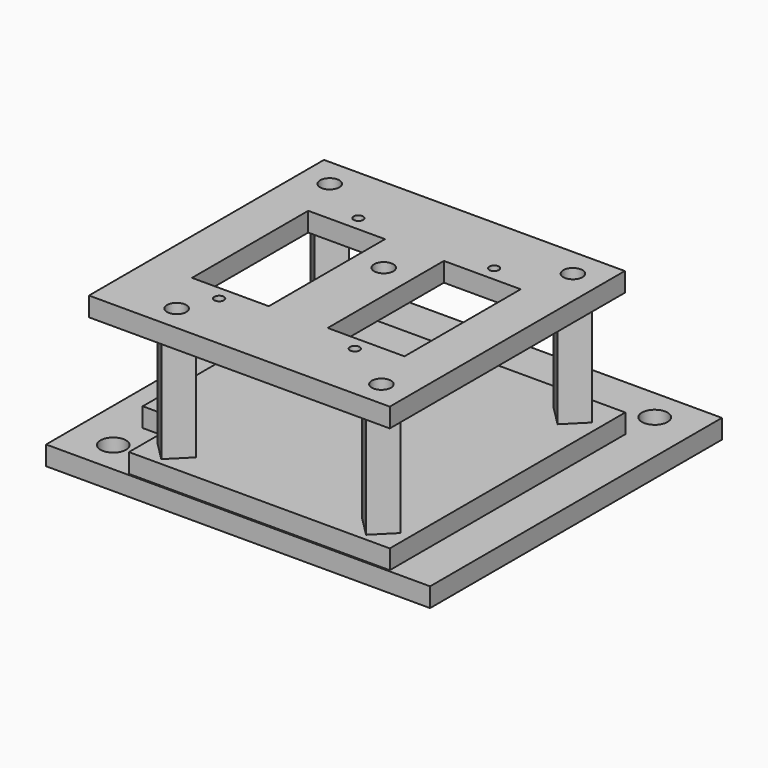
from build123d import *

# Parameters (mm, degrees)
CYLINDER003_R     = 1.5
CYLINDER003_DEPTH = 10
CYLINDER002_R     = 2
CYLINDER002_DEPTH = 10
CYLINDER001_R     = 2
CYLINDER001_DEPTH = 10
CYLINDER_R        = 2
CYLINDER_DEPTH    = 10
BOX_W             = 60
BOX_H             = 57
BOX_DEPTH         = 3
CYLINDER013_R     = 1.5
CYLINDER013_DEPTH = 10
CYLINDER012_R     = 1.5
CYLINDER012_DEPTH = 10
CYLINDER008_R     = 0.75
CYLINDER008_DEPTH = 10
ARRAY006_X_COUNT  = 2
ARRAY006_X_PITCH  = 21.2
ARRAY006_Y_COUNT  = 2
ARRAY006_Y_PITCH  = 27.2
BOX003_W          = 12
BOX003_H          = 22.7
BOX003_DEPTH      = 10
ARRAY004_X_COUNT  = 2
ARRAY004_X_PITCH  = 21.2
CYLINDER006_R     = 1.5
CYLINDER006_DEPTH = 10
ARRAY005_Y_COUNT  = 2
ARRAY005_Y_PITCH  = 37.4
CYLINDER007_R     = 1.5
CYLINDER007_DEPTH = 10
BOX002_W          = 47
BOX002_H          = 45.9
BOX002_DEPTH      = 3
CYLINDER011_R     = 1.5
CYLINDER011_DEPTH = 27
PRISM002_DEPTH    = 20
CYLINDER010_R     = 1.5
CYLINDER010_DEPTH = 27
BOX004_W          = 10
BOX004_H          = 11
BOX004_DEPTH      = 3
CYLINDER009_R     = 1.5
CYLINDER009_DEPTH = 27
PRISM001_DEPTH    = 20
CYLINDER005_R     = 1.5
CYLINDER005_DEPTH = 27
ARRAY002_Y_COUNT  = 2
ARRAY002_Y_PITCH  = 37.4
CYLINDER004_R     = 2.5
CYLINDER004_DEPTH = 10
PRISM_DEPTH       = 20
ARRAY003_Y_COUNT  = 2
ARRAY003_Y_PITCH  = 37.4
BOX001_W          = 47
BOX001_H          = 46
BOX001_DEPTH      = 3


with BuildPart() as cylinder003:
    # Cylinder003 → Cylinder003 (new body)
    with BuildSketch(Plane(origin=(30, 28.5, 0), x_dir=(1, 0, 0), z_dir=(0, 0, 1))):
        Circle(CYLINDER003_R)
    extrude(amount=CYLINDER003_DEPTH)


with BuildPart() as cylinder002:
    # Cylinder002 → Cylinder002 (new body)
    with BuildSketch(Plane(origin=(53.5, 52, 0), x_dir=(1, 0, 0), z_dir=(0, 0, 1))):
        Circle(CYLINDER002_R)
    extrude(amount=CYLINDER002_DEPTH)


with BuildPart() as cylinder001:
    # Cylinder001 → Cylinder001 (new body)
    with BuildSketch(Plane(origin=(6.5, 52, 0), x_dir=(1, 0, 0), z_dir=(0, 0, 1))):
        Circle(CYLINDER001_R)
    extrude(amount=CYLINDER001_DEPTH)


with BuildPart() as cylinder:
    # Cylinder → Cylinder (new body)
    with BuildSketch(Plane(origin=(6.5, 5, 0), x_dir=(1, 0, 0), z_dir=(0, 0, 1))):
        Circle(CYLINDER_R)
    extrude(amount=CYLINDER_DEPTH)


with BuildPart() as obj1:
    # Box → Box (new body)
    with BuildSketch(Plane.XY):
        with Locations((30, 28.5)):
            Rectangle(BOX_W, BOX_H)
    extrude(amount=BOX_DEPTH)

    # Cut: cut Cylinder
    add(cylinder.part, mode=Mode.SUBTRACT)

    # Cut001: cut Cylinder001
    add(cylinder001.part, mode=Mode.SUBTRACT)

    # Cut002: cut Cylinder002
    add(cylinder002.part, mode=Mode.SUBTRACT)

    # Cut003: cut Cylinder003
    add(cylinder003.part, mode=Mode.SUBTRACT)


with BuildPart() as cylinder013:
    # Cylinder013 → Cylinder013 (new body)
    with BuildSketch(Plane(origin=(39.75, 2.5, 18.5), x_dir=(1, 0, 0), z_dir=(0, 0, 1))):
        Circle(CYLINDER013_R)
    extrude(amount=CYLINDER013_DEPTH)


with BuildPart() as cylinder012:
    # Cylinder012 → Cylinder012 (new body)
    with BuildSketch(Plane(origin=(45.75, 39.9, 19.5), x_dir=(1, 0, 0), z_dir=(0, 0, 1))):
        Circle(CYLINDER012_R)
    extrude(amount=CYLINDER012_DEPTH)


with BuildPart() as array006:
    # Cylinder008 → Cylinder008 (new body)
    with BuildSketch(Plane(origin=(16.15, 7.8, 19.5), x_dir=(1, 0, 0), z_dir=(0, 0, 1))):
        Circle(CYLINDER008_R)
    extrude(amount=CYLINDER008_DEPTH)

    # Array006 X: Array006 ×2


with BuildPart() as array006_1:
    add(array006.part)
    with Locations(*[(i * ARRAY006_X_PITCH, 0, 0) for i in range(1, ARRAY006_X_COUNT)]):
        add(array006.part)

    # Array006 Y: Array006 ×2


with BuildPart() as array006_2:
    add(array006_1.part)
    with Locations(*[(0, i * ARRAY006_Y_PITCH, 0) for i in range(1, ARRAY006_Y_COUNT)]):
        add(array006_1.part)


with BuildPart() as array_taladro_servomotor:
    # Box003 → Box003 (new body)
    with BuildSketch(Plane(origin=(10.15, 10, 19.5), x_dir=(1, 0, 0), z_dir=(0, 0, 1))):
        with Locations((6, 11.35)):
            Rectangle(BOX003_W, BOX003_H)
    extrude(amount=BOX003_DEPTH)

    # Array004 X: Array taladro servomotor ×2


with BuildPart() as array_taladro_servomotor_1:
    add(array_taladro_servomotor.part)
    with Locations(*[(i * ARRAY004_X_PITCH, 0, 0) for i in range(1, ARRAY004_X_COUNT)]):
        add(array_taladro_servomotor.part)


with BuildPart() as array005:
    # Cylinder006 → Cylinder006 (new body)
    with BuildSketch(Plane(origin=(7.75, 2.5, 19.5), x_dir=(1, 0, 0), z_dir=(0, 0, 1))):
        Circle(CYLINDER006_R)
    extrude(amount=CYLINDER006_DEPTH)

    # Array005 Y: Array005 ×2


with BuildPart() as array005_1:
    add(array005.part)
    with Locations(*[(0, i * ARRAY005_Y_PITCH, 0) for i in range(1, ARRAY005_Y_COUNT)]):
        add(array005.part)


with BuildPart() as fusion003:
    # Cylinder007 → Cylinder007 (new body)
    with BuildSketch(Plane(origin=(26.75, 26.7, 19.5), x_dir=(1, 0, 0), z_dir=(0, 0, 1))):
        Circle(CYLINDER007_R)
    extrude(amount=CYLINDER007_DEPTH)

    # Fusion003: union Array006, Array taladro servomotor, Array005
    add(array006_2.part)
    add(array_taladro_servomotor_1.part)
    add(array005_1.part)


with BuildPart() as base_final:
    # Box002 → Box002 (new body)
    with BuildSketch(Plane(origin=(3.25, -1.5, 22.5), x_dir=(1, 0, 0), z_dir=(0, 0, 1))):
        with Locations((23.5, 22.95)):
            Rectangle(BOX002_W, BOX002_H)
    extrude(amount=BOX002_DEPTH)

    # Cut005: cut Fusion003
    add(fusion003.part, mode=Mode.SUBTRACT)

    # Cut010: cut Cylinder012
    add(cylinder012.part, mode=Mode.SUBTRACT)

    # Cut011: cut Cylinder013
    add(cylinder013.part, mode=Mode.SUBTRACT)


with BuildPart() as part_mirroring001:
    # Part__Mirroring001: instance of base final
    add(base_final.part.mirror(Plane(origin=(0, 0, 0), x_dir=(0, -1, 0), z_dir=(1, 0, 0))))


with BuildPart() as part_mirroring001_1:
    # Part__Mirroring001 placement: moved
    add(part_mirroring001.part.moved(Location((56.75, 1.75, 0))))


with BuildPart() as cylinder011:
    # Cylinder011 → Cylinder011 (new body)
    with BuildSketch(Plane(origin=(39.75, 2.5, 0), x_dir=(1, 0, 0), z_dir=(0, 0, 1))):
        Circle(CYLINDER011_R)
    extrude(amount=CYLINDER011_DEPTH)


with BuildPart() as cut009:
    # Prism002 → Prism002 (new body)
    with BuildSketch(Plane(origin=(39.75, 2.5, 3), x_dir=(1, 0, 0), z_dir=(0, 0, 1))):
        Polygon((3, 0), (0, 3), (-3, 0), (0, -3), align=None)
    extrude(amount=PRISM002_DEPTH)

    # Cut009: cut Cylinder011
    add(cylinder011.part, mode=Mode.SUBTRACT)


with BuildPart() as cylinder010:
    # Cylinder010 → Cylinder010 (new body)
    with BuildSketch(Plane(origin=(39.75, 2.5, 0), x_dir=(1, 0, 0), z_dir=(0, 0, 1))):
        Circle(CYLINDER010_R)
    extrude(amount=CYLINDER010_DEPTH)


with BuildPart() as obj2:
    # Box004 → Box004 (new body)
    with BuildSketch(Plane(origin=(44, -2, 3), x_dir=(1, 0, 0), z_dir=(0, 0, 1))):
        with Locations((5, 5.5)):
            Rectangle(BOX004_W, BOX004_H)
    extrude(amount=BOX004_DEPTH)


with BuildPart() as cylinder009:
    # Cylinder009 → Cylinder009 (new body)
    with BuildSketch(Plane(origin=(45.75, 39.9, 0), x_dir=(1, 0, 0), z_dir=(0, 0, 1))):
        Circle(CYLINDER009_R)
    extrude(amount=CYLINDER009_DEPTH)


with BuildPart() as prism001:
    # Prism001 → Prism001 (new body)
    with BuildSketch(Plane(origin=(45.75, 39.9, 3), x_dir=(1, 0, 0), z_dir=(0, 0, 1))):
        Polygon((3, 0), (0, 3), (-3, 0), (0, -3), align=None)
    extrude(amount=PRISM001_DEPTH)


with BuildPart() as array002:
    # Cylinder005 → Cylinder005 (new body)
    with BuildSketch(Plane(origin=(7.75, 2.5, 0), x_dir=(1, 0, 0), z_dir=(0, 0, 1))):
        Circle(CYLINDER005_R)
    extrude(amount=CYLINDER005_DEPTH)

    # Array002 Y: Array002 ×2


with BuildPart() as array002_1:
    add(array002.part)
    with Locations(*[(0, i * ARRAY002_Y_PITCH, 0) for i in range(1, ARRAY002_Y_COUNT)]):
        add(array002.part)


with BuildPart() as fusion002:
    # Cylinder004 → Cylinder004 (new body)
    with BuildSketch(Plane(origin=(26.75, 26.75, 0), x_dir=(1, 0, 0), z_dir=(0, 0, 1))):
        Circle(CYLINDER004_R)
    extrude(amount=CYLINDER004_DEPTH)

    # Fusion002: union Array002
    add(array002_1.part)


with BuildPart() as obj3:
    # Prism → Prism (new body)
    with BuildSketch(Plane(origin=(7.75, 2.5, 3), x_dir=(1, 0, 0), z_dir=(0, 0, 1))):
        Polygon((3, 0), (0, 3), (-3, 0), (0, -3), align=None)
    extrude(amount=PRISM_DEPTH)

    # Array003 Y: obj3 ×2


with BuildPart() as obj3_1:
    add(obj3.part)
    with Locations(*[(0, i * ARRAY003_Y_PITCH, 0) for i in range(1, ARRAY003_Y_COUNT)]):
        add(obj3.part)


with BuildPart() as top_plate_final:
    # Box001 → Box001 (new body)
    with BuildSketch(Plane(origin=(3.25, -1.5, 3), x_dir=(1, 0, 0), z_dir=(0, 0, 1))):
        with Locations((23.5, 23)):
            Rectangle(BOX001_W, BOX001_H)
    extrude(amount=BOX001_DEPTH)

    # Fusion001: union obj3
    add(obj3_1.part)

    # Cut004: cut Fusion002
    add(fusion002.part, mode=Mode.SUBTRACT)

    # Fusion004: union Prism001
    add(prism001.part)

    # Cut006: cut Cylinder009
    add(cylinder009.part, mode=Mode.SUBTRACT)

    # Cut007: cut obj2
    add(obj2.part, mode=Mode.SUBTRACT)

    # Cut008: cut Cylinder010
    add(cylinder010.part, mode=Mode.SUBTRACT)

    # Fusion005: union Cut009
    add(cut009.part)


with BuildPart() as part_mirroring:
    # Part__Mirroring: instance of top plate final
    add(top_plate_final.part.mirror(Plane(origin=(0, 0, 0), x_dir=(0, -1, 0), z_dir=(1, 0, 0))))


with BuildPart() as part_mirroring_1:
    # Part__Mirroring placement: moved
    add(part_mirroring.part.moved(Location((56.75, 1.75, 0))))


solid = Compound([obj1.part, part_mirroring001_1.part, part_mirroring_1.part])
